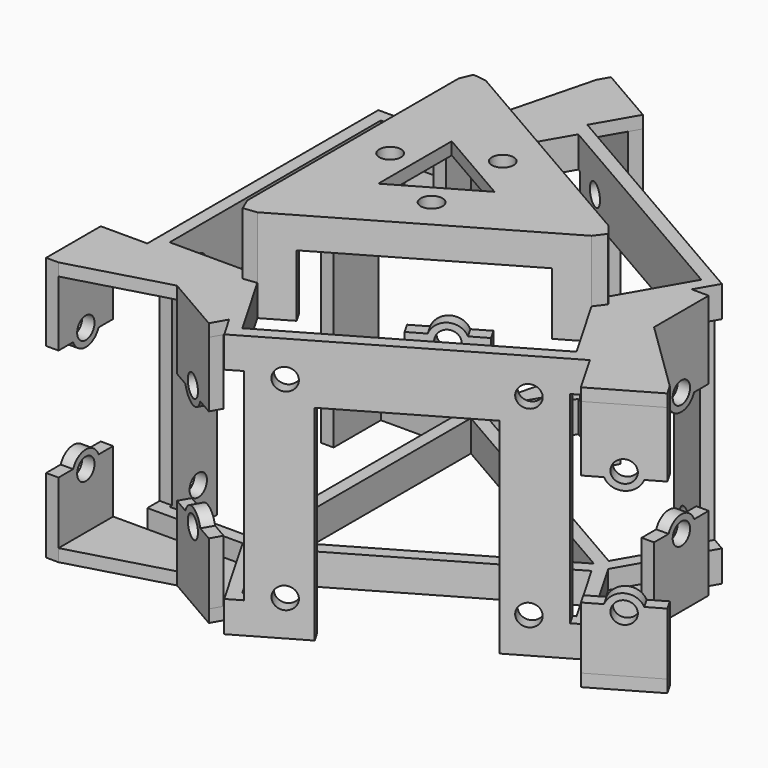
from build123d import *

# Parameters (mm, degrees)
SKETCH_W        = 12.5
SKETCH_H        = 42.5
PAD_DEPTH       = 42.5
PAD001_DEPTH    = 10
SKETCH002_R     = 1.75
PAD002_DEPTH    = 2
POCKET_DEPTH    = 2
POCKET001_DEPTH = 2
POCKET002_DEPTH = 2
SKETCH006_R     = 1.75
SKETCH006_W     = 23.5
SKETCH006_H     = 33
SKETCH006_W_2   = 3.2320508076
SKETCH006_H_2   = 32.5
POCKET003_DEPTH = 14.5
SKETCH007_R     = 1.75
SKETCH007_W     = 23.5
SKETCH007_H     = 33
SKETCH007_W_2   = 3.2320508076
SKETCH007_H_2   = 32.5
POCKET004_DEPTH = 14.5
SKETCH008_R     = 1.75
SKETCH008_W     = 3.2320508076
SKETCH008_H     = 32.5
SKETCH008_W_2   = 23.5
SKETCH008_H_2   = 33
POCKET005_DEPTH = 14.5
PAD003_DEPTH    = 2
PAD004_DEPTH    = 2
SKETCH011_W     = 2
SKETCH011_H     = 11
PAD005_DEPTH    = 42.5
SKETCH012_R     = 1.75
POCKET006_DEPTH = 2
SKETCH013_R     = 1.75
POCKET007_DEPTH = 2
SKETCH014_R     = 1.75
POCKET008_DEPTH = 2
PAD006_DEPTH    = 2
PAD007_DEPTH    = 2
SKETCH017_R     = 1.75
PAD008_DEPTH    = 2
SKETCH018_R     = 1.75
PAD009_DEPTH    = 2
SKETCH019_R     = 1.75
PAD010_DEPTH    = 2


with BuildPart() as part:
    # Sketch → Pad (new body)
    with BuildSketch(Plane.XY):
        Polygon((-13.4233937587, 23.25), (-5.7507440278, 36.5394191624), (34.5194372481, 13.2894191624), (26.8467875173, 0), (34.5194372481, -13.2894191624), (-5.7507440278, -36.5394191624), (-13.4233937587, -23.25), (-28.7686932203, -23.25), (-28.7686932203, 23.25), align=None)
        Polygon((24.5373864406, 0), (-12.2686932203, 21.25), (-12.2686932203, -21.25), align=None, mode=Mode.SUBTRACT)
        with Locations((-20.5186932203, 0)):
            Rectangle(SKETCH_W, SKETCH_H, mode=Mode.SUBTRACT)
        Polygon((-11.2686932203, 22.9820508076), (25.5373864406, 1.7320508076), (31.7873864406, 12.5573683549), (-5.0186932203, 33.8073683549), align=None, mode=Mode.SUBTRACT)
        Polygon((-11.2686932203, -22.9820508076), (25.5373864406, -1.7320508076), (31.7873864406, -12.5573683549), (-5.0186932203, -33.8073683549), align=None, mode=Mode.SUBTRACT)
    extrude(amount=PAD_DEPTH)

    # Sketch001 (on Face26 of Pad) → Pad001 (join)
    with BuildSketch(Plane.XY.offset(42.5)):
        Polygon((-13.4233937587, 23.25), (-11.2686932203, 22.9820508076), (25.5373864406, 1.7320508076), (26.8467875173, 0), (25.5373864406, -1.7320508076), (-11.2686932203, -22.9820508076), (-13.4233937587, -23.25), (-14.2686932203, -21.25), (-14.2686932203, 21.25), align=None)
        Polygon((-12.2686932203, 21.25), (24.5373864406, 0), (-12.2686932203, -21.25), align=None, mode=Mode.SUBTRACT)
    extrude(amount=PAD001_DEPTH)

    # Sketch002 (on Face40 of Pad001) → Pad002 (join)
    with BuildSketch(Plane.XY.offset(52.5)):
        Polygon((-12.2686932203, 21.25), (24.5373864406, 0), (-12.2686932203, -21.25), align=None)
        with Locations((4.1343466101, 7.1608983849)):
            Circle(SKETCH002_R, mode=Mode.SUBTRACT)
        with Locations((4.1343466101, -7.1608983849)):
            Circle(SKETCH002_R, mode=Mode.SUBTRACT)
        with Locations((-8.2686932203, 0)):
            Circle(SKETCH002_R, mode=Mode.SUBTRACT)
        Polygon((8.5373864406, 0), (-4.2686932203, 7.3935935394), (-4.2686932203, -7.3935935394), align=None, mode=Mode.SUBTRACT)
    extrude(amount=-PAD002_DEPTH)

    # Sketch003 (on Face20 of Pad002) → Pocket (cut)
    with BuildSketch(Plane(origin=(7.1343466101, -12.3570508076, 0), x_dir=(0.8660254038, 0.5, 0), z_dir=(0.5, -0.8660254038, 0))):
        Polygon((-16.25, 47.5), (16.25, 47.5), (16.25, 37.5), (23.25, 37.5), (23.25, 5), (-23.25, 5), (-23.25, 37.5), (-16.25, 37.5), align=None)
    extrude(amount=-POCKET_DEPTH, mode=Mode.SUBTRACT)

    # Sketch004 (on Face24 of Pocket) → Pocket001 (cut)
    with BuildSketch(Plane(origin=(-14.2686932203, 0, 0), x_dir=(0, -1, 0), z_dir=(-1, 0, 0))):
        Polygon((-16.25, 47.5), (16.25, 47.5), (16.25, 37.5), (23.25, 37.5), (23.25, 5), (-23.25, 5), (-23.25, 37.5), (-16.25, 37.5), align=None)
    extrude(amount=-POCKET001_DEPTH, mode=Mode.SUBTRACT)

    # Sketch005 (on Face21 of Pocket001) → Pocket002 (cut)
    with BuildSketch(Plane(origin=(7.1343466101, 12.3570508076, 0), x_dir=(-0.8660254038, 0.5, 0), z_dir=(0.5, 0.8660254038, 0))):
        Polygon((-16.25, 47.5), (16.25, 47.5), (16.25, 37.5), (23.25, 37.5), (23.25, 5), (-23.25, 5), (-23.25, 37.5), (-16.25, 37.5), align=None)
    extrude(amount=-POCKET002_DEPTH, mode=Mode.SUBTRACT)

    # Sketch006 (on Face3 of Pocket002) → Pocket003 (cut)
    with BuildSketch(Plane(origin=(14.3843466101, 24.9144191624, 0), x_dir=(-0.8660254038, 0.5, 0), z_dir=(0.5, 0.8660254038, 0))):
        with Locations((-15.5, 36.75)):
            Circle(SKETCH006_R)
        with Locations((15.5, 5.75)):
            Circle(SKETCH006_R)
        with Locations((-15.5, 5.75)):
            Circle(SKETCH006_R)
        with Locations((15.5, 36.75)):
            Circle(SKETCH006_R)
        with Locations((0, 16.5)):
            Rectangle(SKETCH006_W, SKETCH006_H)
        with Locations((-22.3660254038, 21.25)):
            Rectangle(SKETCH006_W_2, SKETCH006_H_2)
        with Locations((22.3660254038, 21.25)):
            Rectangle(SKETCH006_W_2, SKETCH006_H_2)
    extrude(amount=-POCKET003_DEPTH, mode=Mode.SUBTRACT)

    # Sketch007 (on Face20 of Pocket003) → Pocket004 (cut)
    with BuildSketch(Plane(origin=(-28.7686932203, 0, 0), x_dir=(0, -1, 0), z_dir=(-1, 0, 0))):
        with Locations((-15.5, 36.75)):
            Circle(SKETCH007_R)
        with Locations((15.5, 36.75)):
            Circle(SKETCH007_R)
        with Locations((15.5, 5.75)):
            Circle(SKETCH007_R)
        with Locations((-15.5, 5.75)):
            Circle(SKETCH007_R)
        with Locations((0, 16.5)):
            Rectangle(SKETCH007_W, SKETCH007_H)
        with Locations((-22.3660254038, 21.25)):
            Rectangle(SKETCH007_W_2, SKETCH007_H_2)
        with Locations((22.3660254038, 21.25)):
            Rectangle(SKETCH007_W_2, SKETCH007_H_2)
    extrude(amount=-POCKET004_DEPTH, mode=Mode.SUBTRACT)

    # Sketch008 (on Face17 of Pocket004) → Pocket005 (cut)
    with BuildSketch(Plane(origin=(14.3843466101, -24.9144191624, 0), x_dir=(0.8660254038, 0.5, 0), z_dir=(0.5, -0.8660254038, 0))):
        with Locations((-15.5, 36.75)):
            Circle(SKETCH008_R)
        with Locations((15.5, 36.75)):
            Circle(SKETCH008_R)
        with Locations((15.5, 5.75)):
            Circle(SKETCH008_R)
        with Locations((-15.5, 5.75)):
            Circle(SKETCH008_R)
        with Locations((-22.3660254038, 21.25)):
            Rectangle(SKETCH008_W, SKETCH008_H)
        with Locations((22.3660254038, 21.25)):
            Rectangle(SKETCH008_W, SKETCH008_H)
        with Locations((0, 16.5)):
            Rectangle(SKETCH008_W_2, SKETCH008_H_2)
    extrude(amount=-POCKET005_DEPTH, mode=Mode.SUBTRACT)

    # Sketch009 (on Face85 of Pocket005) → Pad003 (join)
    with BuildSketch(Plane.XY.offset(42.5)):
        Polygon((32.4759526419, 9.75), (35.2231758922, 9.75), (35.2231758922, -1.25), (27.5684753538, -1.25), (26.8467875173, 0), align=None)
        Polygon((-7.7942286341, -33), (-9.1678404497, -35.3791654546), (-18.6941196764, -29.8791650823), (-14.8667694316, -23.25), (-13.4233937587, -23.25), align=None)
        Polygon((-24.6817240079, 23.25), (-26.0553461721, 25.6291833789), (-16.5290548402, 31.1291627843), (-12.7017059222, 24.5), (-13.4233937587, 23.25), align=None)
    extrude(amount=-PAD003_DEPTH)

    # Sketch010 (on Face2 of Pad003) → Pad004 (join)
    with BuildSketch(Plane(origin=(0, 0, 0), x_dir=(1, 0, 0), z_dir=(0, 0, -1))):
        Polygon((-9.1678404497, 35.3791654546), (-7.7942286341, 33), (-13.4233937587, 23.25), (-14.8667694316, 23.25), (-18.6941196764, 29.8791650823), align=None)
        Polygon((35.2231758922, 1.25), (35.2231758922, -9.75), (32.4759526419, -9.75), (26.8467875173, 0), (27.5684753538, 1.25), align=None)
        Polygon((-13.4233937587, -23.25), (-12.7017059222, -24.5), (-16.5290548402, -31.1291627843), (-26.0553461721, -25.6291833789), (-24.6817240079, -23.25), align=None)
    extrude(amount=-PAD004_DEPTH)

    # Sketch011 (on Face128 of Pad004) → Pad005 (join)
    with BuildSketch(Plane.XY.offset(42.5)):
        Polygon((-26.0553461721, 25.6291833789), (-16.5290548402, 31.1291627843), (-15.5290548402, 29.3971119767), (-25.0553461721, 23.8971325714), align=None)
        with Locations((34.2231758922, 4.25)):
            Rectangle(SKETCH011_W, SKETCH011_H)
        Polygon((-9.1678404497, -35.3791654546), (-8.1678404497, -33.647114647), (-17.6941196764, -28.1471142747), (-18.6941196764, -29.8791650823), align=None)
    extrude(amount=-PAD005_DEPTH)

    # Sketch012 (on Face175 of Pad005) → Pocket006 (cut)
    with BuildSketch(Plane.YZ.offset(35.2231758922)):
        with Locations((4.25, 31)):
            Circle(SKETCH012_R)
        with Locations((4.25, 11)):
            Circle(SKETCH012_R)
        with BuildLine():
            ThreePointArc((1.6882623085, 30), (4.25, 28.25), (6.8117376915, 30))
            Line((6.8117376915, 30), (9.75, 30))
            Line((9.75, 30), (9.75, 12))
            Line((9.75, 12), (6.8117376915, 12))
            ThreePointArc((6.8117376915, 12), (4.25, 13.75), (1.6882623085, 12))
            Line((1.6882623085, 12), (-1.25, 12))
            Line((-1.25, 12), (-1.25, 30))
            Line((-1.25, 30), (1.6882623085, 30))
        make_face()
    extrude(amount=-POCKET006_DEPTH, mode=Mode.SUBTRACT)

    # Sketch013 (on Face194 of Pocket006) → Pocket007 (cut)
    with BuildSketch(Plane(origin=(-17.6115891382, -30.5041644363, 0), x_dir=(0.8660253842, -0.5000000338, 0), z_dir=(-0.5000000338, -0.8660253842, 0))):
        with Locations((4.2500013766, 31)):
            Circle(SKETCH013_R)
        with Locations((4.2500013766, 11)):
            Circle(SKETCH013_R)
        with BuildLine():
            ThreePointArc((1.6882636851, 30), (4.2500013766, 28.25), (6.8117390681, 30))
            Line((6.8117390681, 30), (9.7500013766, 30))
            Line((9.7500013766, 30), (9.7500013766, 12))
            Line((9.7500013766, 12), (6.8117390681, 12))
            ThreePointArc((6.8117390681, 12), (4.2500013766, 13.75), (1.6882636851, 12))
            Line((1.6882636851, 12), (-1.2499986234, 12))
            Line((-1.2499986234, 12), (-1.2499986234, 30))
            Line((-1.2499986234, 30), (1.6882636851, 30))
        make_face()
    extrude(amount=-POCKET007_DEPTH, mode=Mode.SUBTRACT)

    # Sketch014 (on Face217 of Pocket007) → Pocket008 (cut)
    with BuildSketch(Plane(origin=(-17.6115219998, 30.5042031985, 0), x_dir=(-0.8660264847, -0.4999981278, 0), z_dir=(-0.4999981278, 0.8660264847, 0))):
        with Locations((4.2500761482, 31)):
            Circle(SKETCH014_R)
        with Locations((4.2500761482, 11)):
            Circle(SKETCH014_R)
        with BuildLine():
            ThreePointArc((1.6883384567, 30), (4.2500761482, 28.25), (6.8118138396, 30))
            Line((6.8118138396, 30), (10.7500761482, 30))
            Line((10.7500761482, 30), (10.7500761482, 12))
            Line((10.7500761482, 12), (6.8118138396, 12))
            ThreePointArc((6.8118138396, 12), (4.2500761482, 13.75), (1.6883384567, 12))
            Line((1.6883384567, 12), (-2.2499238519, 12))
            Line((-2.2499238519, 12), (-2.2499238519, 30))
            Line((-2.2499238519, 30), (1.6883384567, 30))
        make_face()
    extrude(amount=-POCKET008_DEPTH, mode=Mode.SUBTRACT)

    # Sketch015 (on Face81 of Pocket008) → Pad006 (join)
    with BuildSketch(Plane.XY.offset(42.5)):
        Polygon((-12.7017059222, 24.5), (-2.0007440278, 43.0346096908), (-11.5270234695, 48.5346096908), (-12.5270234695, 46.8025588833), (-16.5290548402, 31.1291627843), align=None)
        Polygon((-14.8667694316, -23.25), (-36.2686932203, -23.25), (-36.2686932203, -34.25), (-34.2686932203, -34.25), (-18.6941196764, -29.8791650823), align=None)
        Polygon((27.5684753538, -1.25), (38.2694372481, -19.7846096908), (47.7957166898, -14.2846096908), (46.7957166898, -12.5525588833), (35.2231758922, -1.25), align=None)
    extrude(amount=-PAD006_DEPTH)

    # Sketch016 (on Face2 of Pad006) → Pad007 (join)
    with BuildSketch(Plane(origin=(0, 0, 0), x_dir=(1, 0, 0), z_dir=(0, 0, -1))):
        Polygon((-36.2686932203, 34.25), (-34.2686932203, 34.25), (-18.6941196764, 29.8791650823), (-14.8667694316, 23.25), (-36.2686932203, 23.25), align=None)
        Polygon((47.7957166898, 14.2846096908), (46.7957166898, 12.5525588833), (35.2231758922, 1.25), (27.5684753538, 1.25), (38.2694372481, 19.7846096908), align=None)
        Polygon((-2.0007440278, -43.0346096908), (-12.7017059222, -24.5), (-16.5290548402, -31.1291627843), (-12.5270234695, -46.8025588833), (-11.5270234695, -48.5346096908), align=None)
    extrude(amount=-PAD007_DEPTH)

    # Sketch017 (on Face148 of Pad007) → Pad008 (join)
    with BuildSketch(Plane(origin=(-36.2686932203, 0, 0), x_dir=(0, -1, 0), z_dir=(-1, 0, 0))):
        with BuildLine():
            Line((23.25, 42.5), (34.25, 42.5))
            Line((34.25, 42.5), (34.25, 30))
            Line((34.25, 30), (31.3117376915, 30))
            ThreePointArc((26.1882623085, 30), (28.75, 28.25), (31.3117376915, 30))
            Line((26.1882623085, 30), (23.25, 30))
            Line((23.25, 30), (23.25, 42.5))
        make_face()
        with Locations((28.75, 31)):
            Circle(SKETCH017_R, mode=Mode.SUBTRACT)
        with BuildLine():
            Line((23.25, 0), (34.25, 0))
            Line((34.25, 0), (34.25, 12))
            Line((34.25, 12), (31.3117376915, 12))
            ThreePointArc((31.3117376915, 12), (28.75, 13.75), (26.1882623085, 12))
            Line((26.1882623085, 12), (23.25, 12))
            Line((23.25, 12), (23.25, 0))
        make_face()
        with Locations((28.75, 11)):
            Circle(SKETCH017_R, mode=Mode.SUBTRACT)
    extrude(amount=-PAD008_DEPTH)

    # Sketch018 (on Face12 of Pad008) → Pad009 (join)
    with BuildSketch(Plane(origin=(18.1343466101, 31.4096096908, 0), x_dir=(-0.8660254038, 0.5, 0), z_dir=(0.5, 0.8660254038, 0))):
        with BuildLine():
            Line((23.25, 42.5), (34.25, 42.5))
            Line((34.25, 42.5), (34.25, 30))
            Line((34.25, 30), (31.3117376915, 30))
            ThreePointArc((26.1882623085, 30), (28.75, 28.25), (31.3117376915, 30))
            Line((26.1882623085, 30), (23.25, 30))
            Line((23.25, 30), (23.25, 42.5))
        make_face()
        with Locations((28.75, 31)):
            Circle(SKETCH018_R, mode=Mode.SUBTRACT)
        with BuildLine():
            Line((23.25, 0), (34.25, 0))
            Line((34.25, 0), (34.25, 12))
            Line((34.25, 12), (31.3117376915, 12))
            ThreePointArc((31.3117376915, 12), (28.75, 13.75), (26.1882623085, 12))
            Line((26.1882623085, 12), (23.25, 12))
            Line((23.25, 12), (23.25, 0))
        make_face()
        with Locations((28.75, 11)):
            Circle(SKETCH018_R, mode=Mode.SUBTRACT)
    extrude(amount=-PAD009_DEPTH)

    # Sketch019 (on Face134 of Pad009) → Pad010 (join)
    with BuildSketch(Plane(origin=(18.1343466101, -31.4096096908, 0), x_dir=(0.8660254038, 0.5, 0), z_dir=(0.5, -0.8660254038, 0))):
        with BuildLine():
            Line((23.25, 42.5), (34.25, 42.5))
            Line((34.25, 42.5), (34.25, 30))
            Line((34.25, 30), (31.3117376915, 30))
            ThreePointArc((26.1882623085, 30), (28.75, 28.25), (31.3117376915, 30))
            Line((26.1882623085, 30), (23.25, 30))
            Line((23.25, 30), (23.25, 42.5))
        make_face()
        with Locations((28.75, 31)):
            Circle(SKETCH019_R, mode=Mode.SUBTRACT)
        with BuildLine():
            Line((23.25, 0), (34.25, 0))
            Line((34.25, 0), (34.25, 12))
            Line((34.25, 12), (31.3117376915, 12))
            ThreePointArc((31.3117376915, 12), (28.75, 13.75), (26.1882623085, 12))
            Line((26.1882623085, 12), (23.25, 12))
            Line((23.25, 12), (23.25, 0))
        make_face()
        with Locations((28.75, 11)):
            Circle(SKETCH019_R, mode=Mode.SUBTRACT)
    extrude(amount=-PAD010_DEPTH)


solid = part.part
